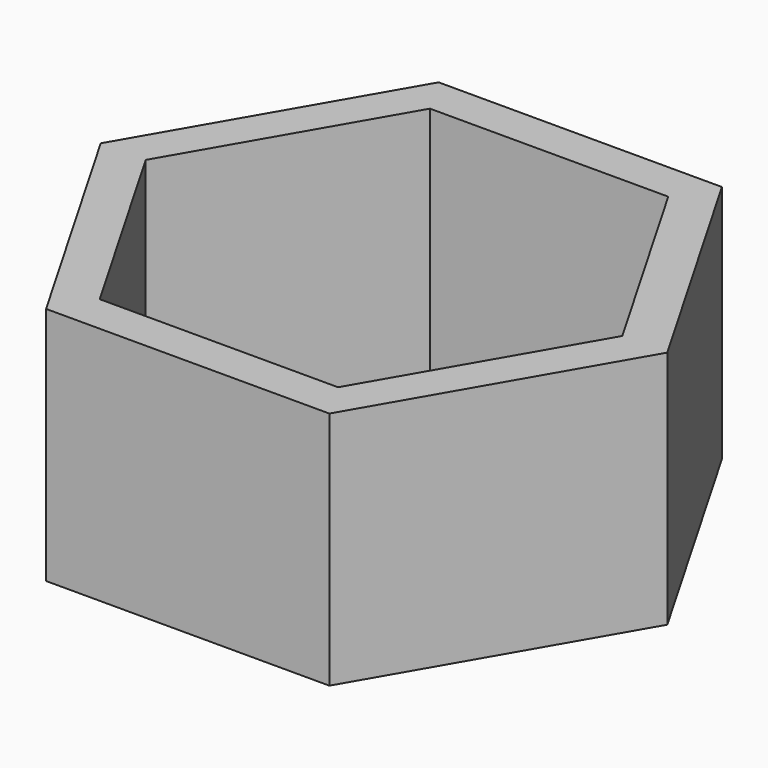
from build123d import *

# Parameters (mm, degrees)
PAD_DEPTH = 8.3


with BuildPart() as part:
    # Sketch → Pad (new body)
    with BuildSketch(Plane.XY):
        Polygon((-4.907477, 8.5), (-9.814955, 0), (-4.907477, -8.5), (4.907477, -8.5), (9.814955, 0), (4.907477, 8.5), align=None)
        Polygon((-4.128054, -7.15), (4.128054, -7.15), (8.256109, 0), (4.128054, 7.15), (-4.128054, 7.15), (-8.256109, 0), align=None, mode=Mode.SUBTRACT)
    extrude(amount=PAD_DEPTH)


solid = part.part
